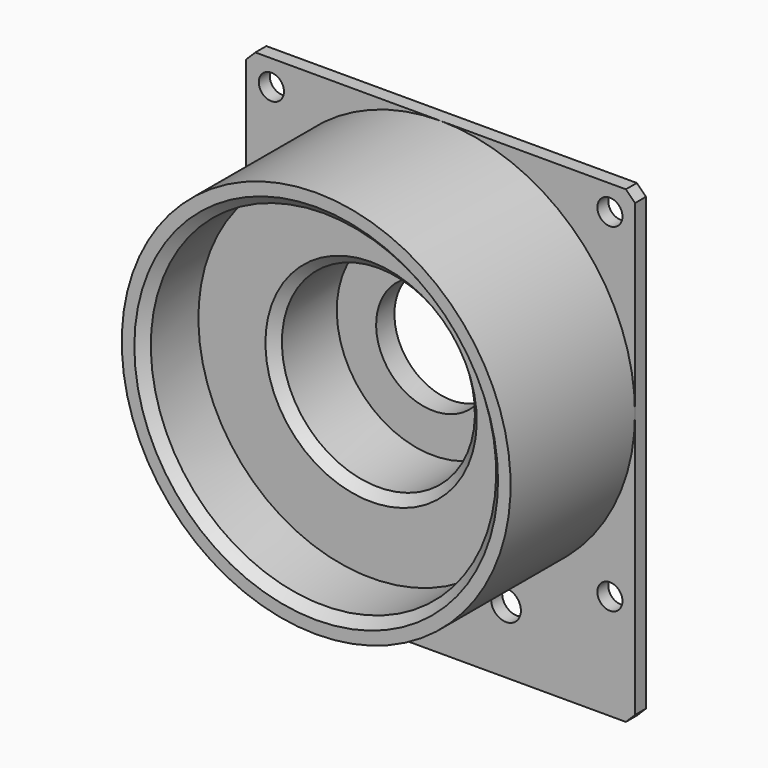
from build123d import *

# Parameters (mm, degrees)
F2_R     = 2.75
F2_R_2   = 3.25
F2_R_3   = 12.5
F3_DEPTH = 3
F4_SIZE  = 2


with BuildPart() as f1:
    # F0 (on Right) → F1 (revolve)
    with BuildSketch(Plane.YZ):
        Polygon((0, 12.5), (0, 42.5), (-37, 42.5), (-37, 37.75), (-22, 37.75), (-22, 21.1), (-5, 21.1), (-5, 12.5), align=None)
    revolve(axis=Axis((0, -4.4609829783, 0), (0, 1, 0)))

    # F2 (on Front) → F3 (join)
    with BuildSketch(Plane.XZ):
        Polygon((42.5, 0), (42.5, 42.5), (-42.5, 42.5), (-42.5, 0), (-42.5, -42.5), (-42.5, -60), (42.5, -60), (42.5, -42.5), align=None)
        with Locations((-37, -37)):
            Circle(F2_R, mode=Mode.SUBTRACT)
        with Locations((-28.2, -46.052)):
            Circle(F2_R_2, mode=Mode.SUBTRACT)
        with Locations((14.3, -46.052)):
            Circle(F2_R_2, mode=Mode.SUBTRACT)
        with Locations((37, -37)):
            Circle(F2_R, mode=Mode.SUBTRACT)
        with Locations((-37, 37)):
            Circle(F2_R, mode=Mode.SUBTRACT)
        Circle(F2_R_3, mode=Mode.SUBTRACT)
        with Locations((37, 37)):
            Circle(F2_R, mode=Mode.SUBTRACT)
    extrude(amount=F3_DEPTH)

    # F4
    f4_edges = [f1.edges().sort_by_distance(p)[0] for p in [
        (42.5, -1.5, 42.5),
        (-42.5, -1.5, 42.5),
        (42.5, -1.5, -60),
        (-42.5, -1.5, -60),
        (0, -22, -21.1),
        (0, -37, -37.75),
    ]]
    chamfer(f4_edges, length=F4_SIZE)


solid = f1.part
